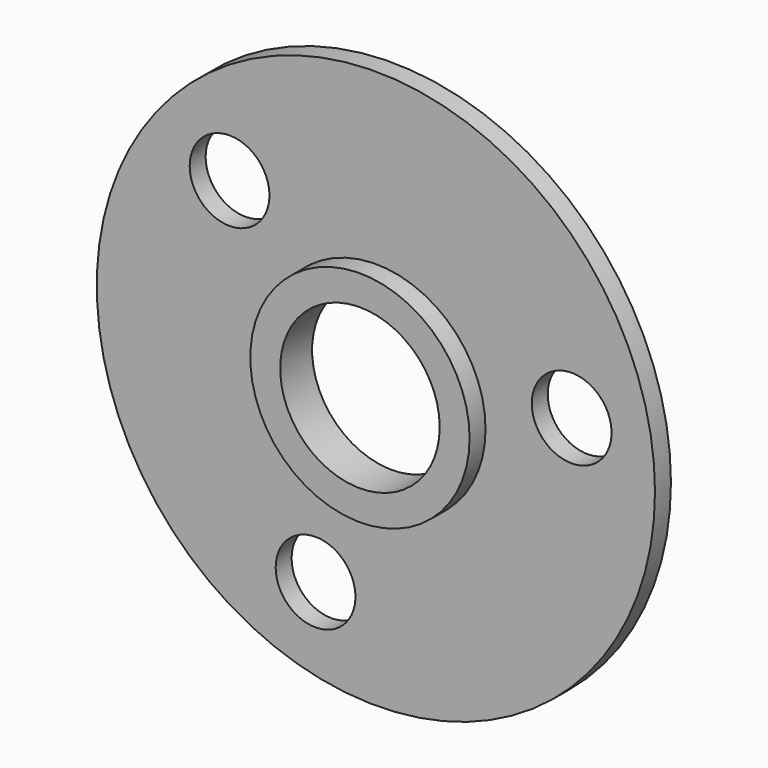
from build123d import *

# Parameters (mm, degrees)
F0_R     = 88.9
F0_R_2   = 25.4
F1_DEPTH = 6.35
F3_D     = 25.4
F4_R     = 34.925
F4_R_2   = 25.4
F5_DEPTH = 6.35


with BuildPart() as f1:
    # F0 (on Front) → F1 (new body)
    with BuildSketch(Plane.XZ):
        Circle(F0_R)
        Circle(F0_R_2, mode=Mode.SUBTRACT)
    extrude(amount=F1_DEPTH)

    # F3 (through all)
    with Locations(Plane.XZ.offset(6.35)):
        with Locations((-46.60388, 43.131524), (62.35563, 12.001059), (-19.218356, -60.521936)):
            Hole(F3_D / 2)

    # F4 (on face) → F5 (join)
    with BuildSketch(Plane.XZ.offset(6.35)):
        Circle(F4_R)
        Circle(F4_R_2, mode=Mode.SUBTRACT)
    extrude(amount=F5_DEPTH)


solid = f1.part
